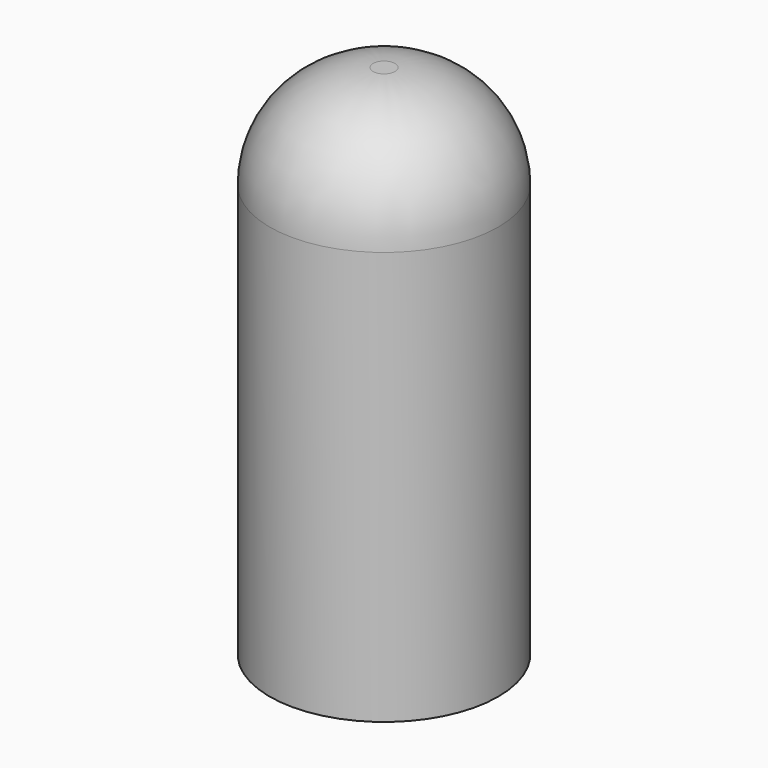
from build123d import *

# Parameters (mm, degrees)
F0_R     = 5.618526
F1_DEPTH = 25.4
F2_R     = 5.08
F3_R     = 3.81
F4_DEPTH = 3


with BuildPart() as f1:
    # F0 (on Top) → F1 (new body)
    with BuildSketch(Plane.XY):
        Circle(F0_R)
    extrude(amount=F1_DEPTH)

    # F2
    f2_edges = [f1.edges().sort_by_distance(p)[0] for p in [
        (-5.618526, 0, 25.4),
    ]]
    fillet(f2_edges, radius=F2_R)

    # F3 (on Top) → F4 (join)
    with BuildSketch(Plane.XY):
        Circle(F3_R)
    extrude(amount=F4_DEPTH)


solid = f1.part
